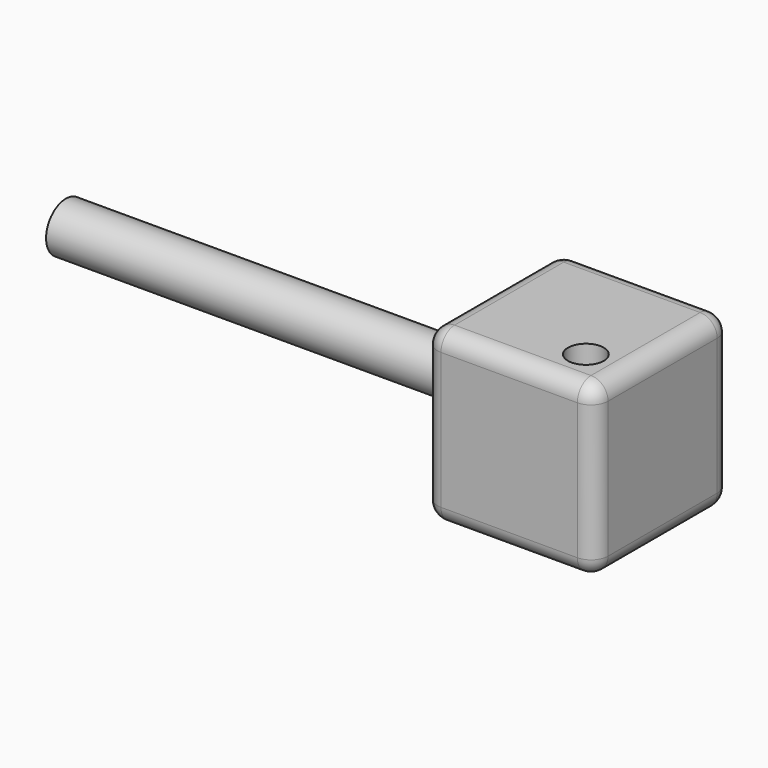
from build123d import *

# Parameters (mm, degrees)
F0_W     = 50
F0_H     = 50
F1_DEPTH = 25
F2_R     = 5
F4_D     = 10.5
F4_DEPTH = 16.5
F4_TIP   = 3.1545182499
F5_R     = 7.2596077851
F6_DEPTH = 25
F7_DEPTH = 150


with BuildPart() as f1:
    # F0 (on Front) → F1 (new body, symmetric)
    with BuildSketch(Plane.XZ):
        Rectangle(F0_W, F0_H)
    extrude(amount=F1_DEPTH, both=True)

    # F2
    f2_edges = [f1.edges().sort_by_distance(p)[0] for p in [
        (-25, -25, 0),
        (-25, 0, 25),
        (25, 0, 25),
        (0, 25, 25),
        (0, -25, 25),
        (25, -25, 0),
        (25, 0, -25),
        (0, -25, -25),
        (25, 25, 0),
        (0, 25, -25),
        (-25, 25, 0),
        (-25, 0, -25),
    ]]
    fillet(f2_edges, radius=F2_R)

    # F4
    with Locations(Plane.XY.offset(25)):
        with Locations((12.5, -12.5)):
            Hole(F4_D / 2, depth=F4_DEPTH)
            with Locations((0, 0, -(F4_DEPTH + F4_TIP / 2))):  # 118° drill point
                Cone(0, F4_D / 2, F4_TIP, mode=Mode.SUBTRACT)

    # F5 (on face) → F6 (cut)
    with BuildSketch(Plane(origin=(-25, 0, 0), x_dir=(0, -1, 0), z_dir=(-1, 0, 0))):
        Circle(F5_R)
    extrude(amount=-F6_DEPTH, mode=Mode.SUBTRACT)


with BuildPart() as f7:
    # F7 (new): a face of the model
    f7_faces = [f1.part.faces().sort_by_distance(p)[0] for p in [
        (0, 0, 0),
    ]]
    extrude(f7_faces, amount=F7_DEPTH)


solid = Compound([f1.part, f7.part])
